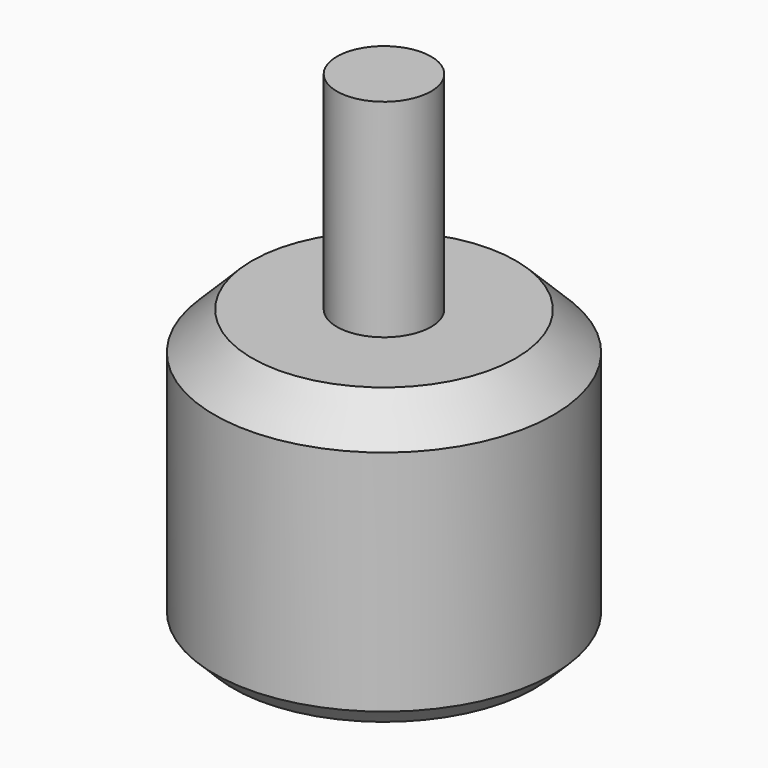
from build123d import *

# Parameters (mm, degrees)
F0_R     = 9
F1_DEPTH = 15.1
F2_SIZE  = 2
F3_SIZE  = 1
F4_R     = 1.1
F5_DEPTH = 5
F6_R     = 2.5
F7_DEPTH = 11
F8_R     = 0.75
F9_DEPTH = 2


with BuildPart() as f1:
    # F0 (on Top) → F1 (new body)
    with BuildSketch(Plane.XY):
        Circle(F0_R)
    extrude(amount=F1_DEPTH)

    # F2
    f2_edges = [f1.edges().sort_by_distance(p)[0] for p in [
        (-9, 0, 15.1),
    ]]
    chamfer(f2_edges, length=F2_SIZE)

    # F3
    f3_edges = [f1.edges().sort_by_distance(p)[0] for p in [
        (-9, 0, 0),
    ]]
    chamfer(f3_edges, length=F3_SIZE)

    # F4 (on face) → F5 (cut)
    with BuildSketch(Plane(origin=(0, 0, 0), x_dir=(1, 0, 0), z_dir=(0, 0, -1))):
        with Locations((0, 6)):
            Circle(F4_R)
        with Locations((-6, 0)):
            Circle(F4_R)
        with Locations((0, -6)):
            Circle(F4_R)
        with Locations((6, 0)):
            Circle(F4_R)
    extrude(amount=-F5_DEPTH, mode=Mode.SUBTRACT)

    # F6 (on face) → F7 (join)
    with BuildSketch(Plane.XY.offset(15.1)):
        Circle(F6_R)
    extrude(amount=F7_DEPTH)

    # F8 (on face) → F9 (join)
    with BuildSketch(Plane(origin=(0, 0, 0), x_dir=(1, 0, 0), z_dir=(0, 0, -1))):
        Circle(F8_R)
    extrude(amount=F9_DEPTH)


solid = f1.part
